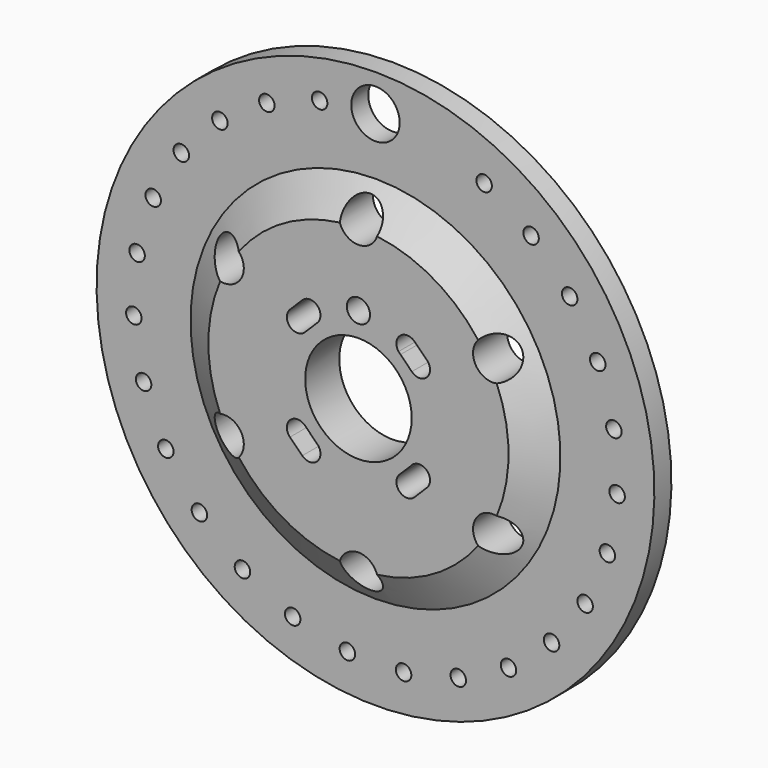
from build123d import *

# Parameters (mm, degrees)
F0_R     = 144
F0_R_2   = 4
F0_R_3   = 10.1
F0_R_4   = 27.5
F0_R_5   = 6
F0_R_6   = 12.5
F3_DEPTH = 25


with BuildPart() as f2:
    # F1 (on Right) → F2 (revolve)
    with BuildSketch(Plane.YZ):
        Polygon((-22, 0), (0, 0), (0, 144), (-11, 144), (-11, 95.5), (-22, 77.5), align=None)
    revolve(axis=Axis((0, -11, 0), (0, 1, 0)))

    # F0 (on Front) → F3 (intersect)
    with BuildSketch(Plane.XZ):
        Circle(F0_R)
        with Locations((-90.914431, -85.773342)):
            Circle(F0_R_2, mode=Mode.SUBTRACT)
        with Locations((-42.749098, -117.452181)):
            Circle(F0_R_2, mode=Mode.SUBTRACT)
        with Locations((-14.510453, -124.144862)):
            Circle(F0_R_2, mode=Mode.SUBTRACT)
        with Locations((-68.683127, -104.427622)):
            Circle(F0_R_2, mode=Mode.SUBTRACT)
        with Locations((-108.244515, -62.495)):
            Circle(F0_R_2, mode=Mode.SUBTRACT)
        with Locations((-119.739109, -35.847536)):
            Circle(F0_R_2, mode=Mode.SUBTRACT)
        with Locations((-124.778537, -7.267522)):
            Circle(F0_R_2, mode=Mode.SUBTRACT)
        with Locations((-69.282032, -40)):
            Circle(F0_R_3, mode=Mode.SUBTRACT)
        with BuildLine():
            ThreePointArc((-35.355339, -28.991378), (-35.344887, -21.202779), (-27.556343, -21.234136))
            Line((-27.556343, -21.234136), (-21.738307, -27.114974))
            ThreePointArc((-21.738307, -27.114974), (-21.192382, -27.598098), (-20.715148, -28.149178))
            ThreePointArc((-20.715148, -28.149178), (-19.887922, -29.716864), (-19.602291, -31.466252))
            ThreePointArc((-19.602291, -31.466252), (-22.998539, -36.548006), (-28.99292, -35.353796))
            Line((-28.99292, -35.353796), (-35.355339, -28.991378))
        make_face(mode=Mode.SUBTRACT)
        with Locations((14.510453, -124.144862)):
            Circle(F0_R_2, mode=Mode.SUBTRACT)
        with Locations((42.749098, -117.452181)):
            Circle(F0_R_2, mode=Mode.SUBTRACT)
        with Locations((0, -80)):
            Circle(F0_R_3, mode=Mode.SUBTRACT)
        with Locations((68.683127, -104.427622)):
            Circle(F0_R_2, mode=Mode.SUBTRACT)
        with Locations((90.914431, -85.773342)):
            Circle(F0_R_2, mode=Mode.SUBTRACT)
        with Locations((69.282032, -40)):
            Circle(F0_R_3, mode=Mode.SUBTRACT)
        with BuildLine():
            ThreePointArc((28.991378, -35.355339), (21.202779, -35.344887), (21.234136, -27.556343))
            Line((21.234136, -27.556343), (27.114974, -21.738307))
            ThreePointArc((27.114974, -21.738307), (27.598098, -21.192382), (28.149178, -20.715148))
            ThreePointArc((28.149178, -20.715148), (33.916363, -20.178171), (36.966252, -25.102291))
            ThreePointArc((36.966252, -25.102291), (36.547172, -27.208057), (35.353796, -28.99292))
            Line((35.353796, -28.99292), (28.991378, -35.355339))
        make_face(mode=Mode.SUBTRACT)
        with Locations((108.244515, -62.495)):
            Circle(F0_R_2, mode=Mode.SUBTRACT)
        with Locations((119.739109, -35.847536)):
            Circle(F0_R_2, mode=Mode.SUBTRACT)
        with Locations((124.778537, -7.267522)):
            Circle(F0_R_2, mode=Mode.SUBTRACT)
        with Locations((-123.091121, 21.704286)):
            Circle(F0_R_2, mode=Mode.SUBTRACT)
        with Locations((-114.767831, 49.50601)):
            Circle(F0_R_2, mode=Mode.SUBTRACT)
        with BuildLine():
            ThreePointArc((-28.991378, 35.355339), (-22.997532, 36.547589), (-19.602291, 31.466252))
            ThreePointArc((-19.602291, 31.466252), (-20.026621, 29.347862), (-21.234136, 27.556343))
            Line((-21.234136, 27.556343), (-27.114974, 21.738307))
            ThreePointArc((-27.114974, 21.738307), (-27.598098, 21.192382), (-28.149178, 20.715148))
            ThreePointArc((-28.149178, 20.715148), (-35.614955, 21.491437), (-35.353796, 28.99292))
            Line((-35.353796, 28.99292), (-28.991378, 35.355339))
        make_face(mode=Mode.SUBTRACT)
        with Locations((-69.282032, 40)):
            Circle(F0_R_3, mode=Mode.SUBTRACT)
        with Locations((-100.257378, 74.638852)):
            Circle(F0_R_2, mode=Mode.SUBTRACT)
        with Locations((-80.342023, 95.747895)):
            Circle(F0_R_2, mode=Mode.SUBTRACT)
        with Locations((-56.09541, 111.695144)):
            Circle(F0_R_2, mode=Mode.SUBTRACT)
        with Locations((-28.824678, 121.620878)):
            Circle(F0_R_2, mode=Mode.SUBTRACT)
        Circle(F0_R_4, mode=Mode.SUBTRACT)
        with BuildLine():
            ThreePointArc((35.355339, 28.991378), (36.547589, 27.20705), (36.966252, 25.102291))
            ThreePointArc((36.966252, 25.102291), (33.557364, 20.015322), (27.556343, 21.234136))
            Line((27.556343, 21.234136), (21.738307, 27.114974))
            ThreePointArc((21.738307, 27.114974), (21.192382, 27.598098), (20.715148, 28.149178))
            ThreePointArc((20.715148, 28.149178), (21.491437, 35.614955), (28.99292, 35.353796))
            Line((28.99292, 35.353796), (35.355339, 28.991378))
        make_face(mode=Mode.SUBTRACT)
        with Locations((0, 40)):
            Circle(F0_R_5, mode=Mode.SUBTRACT)
        with Locations((69.282032, 40)):
            Circle(F0_R_3, mode=Mode.SUBTRACT)
        with Locations((123.091121, 21.704286)):
            Circle(F0_R_2, mode=Mode.SUBTRACT)
        with Locations((114.767831, 49.50601)):
            Circle(F0_R_2, mode=Mode.SUBTRACT)
        with Locations((0, 80)):
            Circle(F0_R_3, mode=Mode.SUBTRACT)
        with Locations((0, 124.99)):
            Circle(F0_R_6, mode=Mode.SUBTRACT)
        with Locations((56.09541, 111.695144)):
            Circle(F0_R_2, mode=Mode.SUBTRACT)
        with Locations((100.257378, 74.638852)):
            Circle(F0_R_2, mode=Mode.SUBTRACT)
        with Locations((80.342023, 95.747895)):
            Circle(F0_R_2, mode=Mode.SUBTRACT)
    extrude(amount=F3_DEPTH, mode=Mode.INTERSECT)


solid = f2.part
